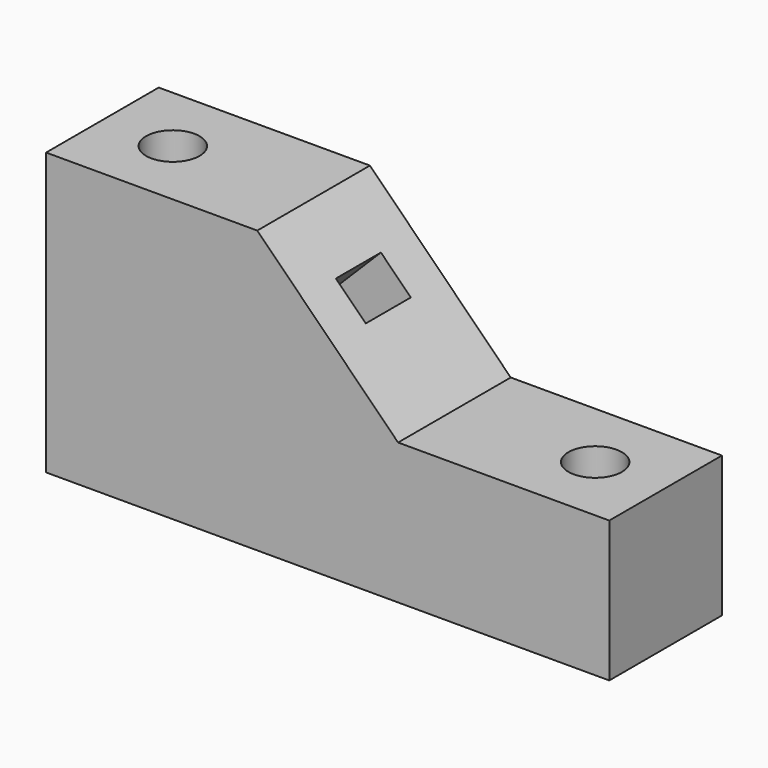
from build123d import *

# Parameters (mm, degrees)
F1_DEPTH = 25.4
F2_R     = 4.826
F3_DEPTH = 50.801
F4_W     = 7.62
F4_H     = 10.16
F5_DEPTH = 62.862793


with BuildPart() as f1:
    # F0 (on Front) → F1 (new body)
    with BuildSketch(Plane.XZ):
        Polygon((-22.029007, 40.128093), (-60.129007, 40.128093), (-60.129007, -10.671907), (41.470993, -10.671907), (41.470993, 14.728093), (3.370993, 14.728093), align=None)
    extrude(amount=F1_DEPTH)

    # F2 (on face) → F3 (cut, through all)
    with BuildSketch(Plane.XY.offset(40.128093)):
        with Locations((-47.429007, -12.7)):
            Circle(F2_R)
        with Locations((28.770993, -12.7)):
            Circle(F2_R)
    extrude(amount=-F3_DEPTH, mode=Mode.SUBTRACT)

    # F4 (on face) → F5 (cut, through all)
    with BuildSketch(Plane(origin=(9.049543, 0, 9.049543), x_dir=(0.707107, 0, -0.707107), z_dir=(0.707107, 0, 0.707107))):
        with Locations((-28.711707, -12.7)):
            Rectangle(F4_W, F4_H)
    extrude(amount=-F5_DEPTH, mode=Mode.SUBTRACT)


solid = f1.part
